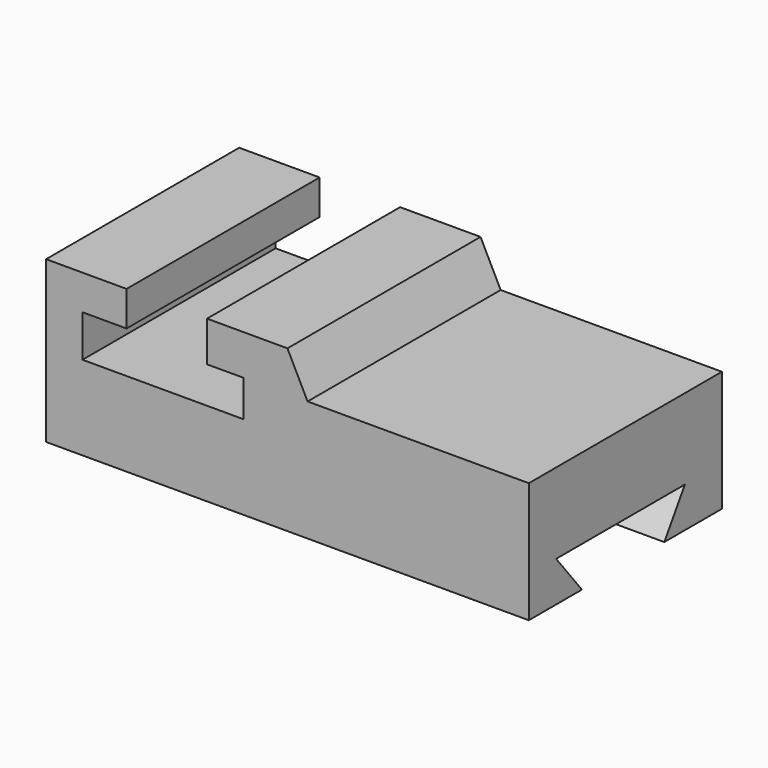
from build123d import *

# Parameters (mm, degrees)
F1_DEPTH = 76.2
F3_DEPTH = 25.4


with BuildPart() as f1:
    # F0 (on Front) → F1 (new body)
    with BuildSketch(Plane.XZ):
        Polygon((-53.467005, 35.687), (-53.467005, -15.113), (98.932995, -15.113), (98.932995, 22.987), (29.082995, 22.987), (22.732995, 35.687), (-2.667005, 35.687), (-2.667005, 22.987), (8.837793, 22.987), (8.837793, 11.473469), (-41.962207, 11.473469), (-41.962207, 24.681469), (-28.067005, 24.681469), (-28.067005, 35.687), align=None)
    extrude(amount=F1_DEPTH)

    # F2 (on face) → F3 (cut)
    with BuildSketch(Plane.YZ.offset(98.932995)):
        Polygon((-14.604999, -2.413), (-65.404999, -2.413), (-55.245001, -15.113), (-22.732999, -15.113), align=None)
    extrude(amount=-F3_DEPTH, mode=Mode.SUBTRACT)


solid = f1.part
